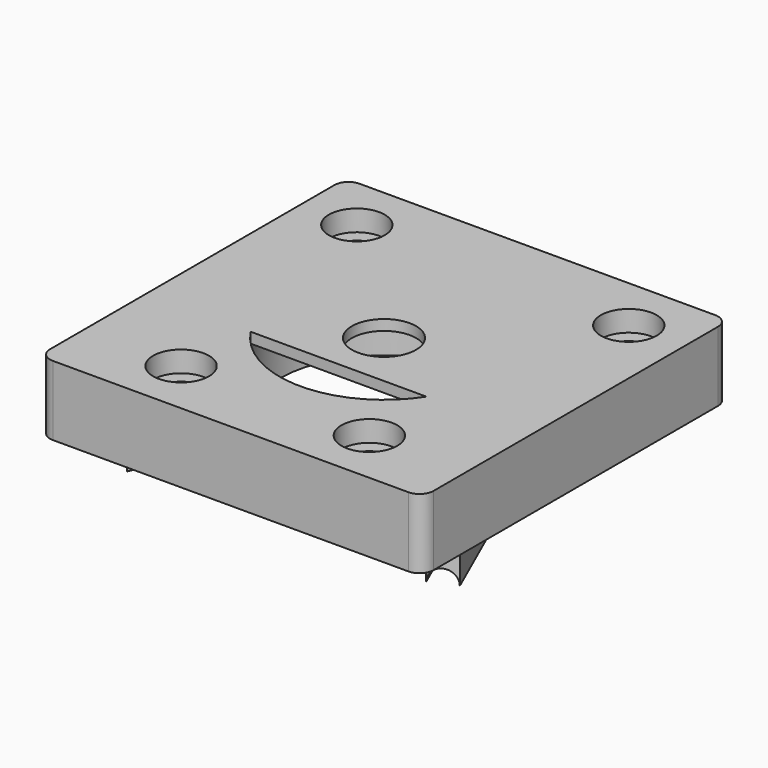
from build123d import *

# Parameters (mm, degrees)
PAD011_DEPTH    = 10
PAD012_DEPTH    = 6
POCKET014_DEPTH = 221.3994809485
SKETCH029_R     = 2
SKETCH029_R_2   = 4.6
POCKET015_DEPTH = 10.001
SKETCH030_R     = 4
POCKET016_DEPTH = 3
SKETCH031_R     = 15
POCKET017_DEPTH = 8.5


with BuildPart() as part:
    # Sketch025 → Pad011 (new body)
    with BuildSketch(Plane.XY.offset(70.1)):
        with BuildLine():
            Line((-27.5, 25.5), (-27.5, -25.5))
            ThreePointArc((-27.5, -25.5), (-26.9142135624, -26.9142135624), (-25.5, -27.5))
            Line((-25.5, -27.5), (25.5, -27.5))
            ThreePointArc((25.5, -27.5), (26.9142135624, -26.9142135624), (27.5, -25.5))
            Line((27.5, -25.5), (27.5, 25.5))
            ThreePointArc((27.5, 25.5), (26.9142135624, 26.9142135624), (25.5, 27.5))
            Line((25.5, 27.5), (-25.5, 27.5))
            ThreePointArc((-25.5, 27.5), (-26.9142135624, 26.9142135624), (-27.5, 25.5))
        make_face()
    extrude(amount=-PAD011_DEPTH)

    # Sketch027 → Pad012 (join)
    with BuildSketch(Plane.XY.offset(60.1)):
        Polygon((-19.9456135517, -6.25), (-16.38, -7.83), (-21.4441025641, -19.2582485631), (-25.0097161158, -17.6782485631), align=None)
    pad012 = extrude(amount=-PAD012_DEPTH)

    # Sketch028 (on Face12 of Pad012) → Pocket014 (cut, through all)
    with BuildSketch(Plane(origin=(-10.6527063441, -24.0401481662, 0), x_dir=(0.914259885, -0.4051282051, 0), z_dir=(-0.4051282051, -0.914259885, 0))):
        with BuildLine():
            ThreePointArc((-11.8034230709, 54.1), (-13.7534230709, 56.05), (-15.7034230709, 54.1))
            Line((-11.8034230709, 54.1), (-15.7034230709, 54.1))
        make_face()
    pocket014 = extrude(amount=-POCKET014_DEPTH, mode=Mode.SUBTRACT)

    # Mirrored001: Pad012, Pocket014 across YZ
    add(pad012.mirror(Plane.YZ))
    add(pocket014.mirror(Plane.YZ), mode=Mode.SUBTRACT)

    # Sketch029 → Pocket015 (cut, through all)
    with BuildSketch(Plane.XY.offset(60.1)):
        with Locations((19.5, 19.5)):
            Circle(SKETCH029_R)
        with Locations((-19.5, 19.5)):
            Circle(SKETCH029_R)
        with Locations((-13.5, -19.5)):
            Circle(SKETCH029_R)
        with Locations((13.5, -19.5)):
            Circle(SKETCH029_R)
        Circle(SKETCH029_R_2)
        with BuildLine():
            ThreePointArc((-12.595, -8.1465314705), (0, -15), (12.595, -8.1465314705))
            Line((-12.595, -8.1465314705), (12.595, -8.1465314705))
        make_face()
    extrude(amount=POCKET015_DEPTH, mode=Mode.SUBTRACT)

    # Sketch030 → Pocket016 (cut)
    with BuildSketch(Plane.XY.offset(70.1)):
        with Locations((13.5, -19.5)):
            Circle(SKETCH030_R)
        with Locations((-13.5, -19.5)):
            Circle(SKETCH030_R)
        with Locations((-19.5, 19.5)):
            Circle(SKETCH030_R)
        with Locations((19.5, 19.5)):
            Circle(SKETCH030_R)
    extrude(amount=-POCKET016_DEPTH, mode=Mode.SUBTRACT)

    # Sketch031 → Pocket017 (cut)
    with BuildSketch(Plane.XY.offset(60.1)):
        Circle(SKETCH031_R)
    extrude(amount=POCKET017_DEPTH, mode=Mode.SUBTRACT)


solid = part.part
